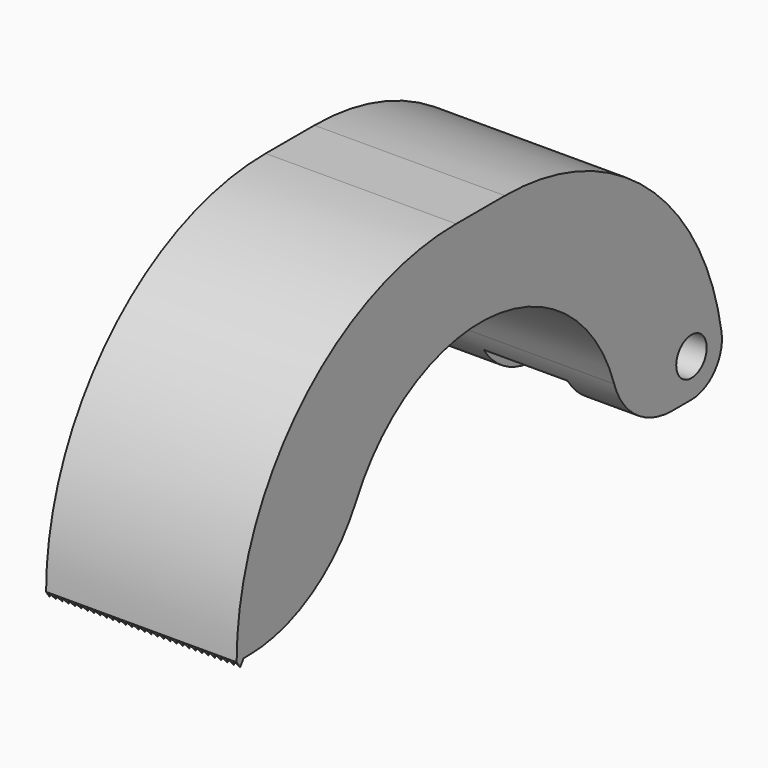
from build123d import *

# Parameters (mm, degrees)
F1_DEPTH  = 31.75
F2_R      = 6.35
F3_W      = 13.97
F3_H      = 25.4
F4_DEPTH  = 12.7
F5_R      = 3.175
F6_DEPTH  = 8.891
F7_R      = 3.175
F8_DEPTH  = 8.891
F10_DEPTH = 1.27


with BuildPart() as f1:
    # F0 (on Right) → F1 (new body)
    with BuildSketch(Plane.YZ):
        with BuildLine():
            Line((5.08, 22.86), (-5.08, 22.86))
            ThreePointArc((-5.08, 22.86), (-37.4089220358, 9.4689220358), (-50.8, -22.86))
            Line((-50.8, -22.86), (-49.3431158517, -22.86))
            Line((-49.3431158517, -22.86), (-48.3434804291, -22.86))
            ThreePointArc((-48.3434804291, -22.86), (-35.2079259795, -19.1997610222), (-25.8581406946, -9.2739534884))
            ThreePointArc((-25.8581406946, -9.2739534884), (2.5656373666, 6.2371064696), (27.8365726971, -14.0084848485))
            ThreePointArc((27.8365726971, -14.0084848485), (32.4422895224, -20.410994039), (39.9394303915, -22.86))
            Line((39.9394303915, -22.86), (50.8, -22.86))
            ThreePointArc((50.8, -22.86), (37.4089220358, 9.4689220358), (5.08, 22.86))
        make_face()
        Polygon((-49.3431158517, -22.86), (-50.8, -22.86), (-50.0715579258, -23.9003230962), align=None)
    extrude(amount=F1_DEPTH)

    # F2
    f2_edges = [f1.edges().sort_by_distance(p)[0] for p in [
        (15.875, 50.8, -22.86),
    ]]
    fillet(f2_edges, radius=F2_R)

    # F3 (on face) → F4 (cut)
    with BuildSketch(Plane(origin=(0, 0, -22.86), x_dir=(1, 0, 0), z_dir=(0, 0, -1))):
        with Locations((15.875, -41.9369795426)):
            Rectangle(F3_W, F3_H)
    extrude(amount=-F4_DEPTH, mode=Mode.SUBTRACT)

    # F5 (on face) → F6 (cut, through all)
    with BuildSketch(Plane.YZ.offset(8.89)):
        with Locations((43.9345286936, -16.51)):
            Circle(F5_R)
    extrude(amount=-F6_DEPTH, mode=Mode.SUBTRACT)

    # F7 (on face) → F8 (cut, through all)
    with BuildSketch(Plane(origin=(22.86, 0, 0), x_dir=(0, -1, 0), z_dir=(-1, 0, 0))):
        with Locations((-43.9345286936, -16.51)):
            Circle(F7_R)
    extrude(amount=-F8_DEPTH, mode=Mode.SUBTRACT)

    # F9 (on face) → F10 (cut)
    with BuildSketch(Plane(origin=(0, -44.8279982961, -31.3889023298), x_dir=(1, 0, 0), z_dir=(0, -0.8191520443, -0.5735764364))):
        Polygon((0.5291666667, 10.4118672342), (0, 9.1418672342), (1.0583333333, 9.1418672342), align=None)
        Polygon((31.2208333333, 10.4118672342), (30.6916666667, 9.1418672342), (31.75, 9.1418672342), align=None)
        Polygon((30.1625, 10.4118672342), (29.6333333333, 9.1418672342), (30.6916666667, 9.1418672342), align=None)
        Polygon((29.1041666667, 10.4118672342), (28.575, 9.1418672342), (29.6333333333, 9.1418672342), align=None)
        Polygon((28.0458333333, 10.4118672342), (27.5166666667, 9.1418672342), (28.575, 9.1418672342), align=None)
        Polygon((26.9875, 10.4118672342), (26.4583333333, 9.1418672342), (27.5166666667, 9.1418672342), align=None)
        Polygon((25.9291666667, 10.4118672342), (25.4, 9.1418672342), (26.4583333333, 9.1418672342), align=None)
        Polygon((24.8708333333, 10.4118672342), (24.3416666667, 9.1418672342), (25.4, 9.1418672342), align=None)
        Polygon((23.8125, 10.4118672342), (23.2833333333, 9.1418672342), (24.3416666667, 9.1418672342), align=None)
        Polygon((22.7541666667, 10.4118672342), (22.225, 9.1418672342), (23.2833333333, 9.1418672342), align=None)
        Polygon((21.6958333333, 10.4118672342), (21.1666666667, 9.1418672342), (22.225, 9.1418672342), align=None)
        Polygon((20.6375, 10.4118672342), (20.1083333333, 9.1418672342), (21.1666666667, 9.1418672342), align=None)
        Polygon((19.5791666667, 10.4118672342), (19.05, 9.1418672342), (20.1083333333, 9.1418672342), align=None)
        Polygon((18.5208333333, 10.4118672342), (17.9916666667, 9.1418672342), (19.05, 9.1418672342), align=None)
        Polygon((17.4625, 10.4118672342), (16.9333333333, 9.1418672342), (17.9916666667, 9.1418672342), align=None)
        Polygon((16.4041666667, 10.4118672342), (15.875, 9.1418672342), (16.9333333333, 9.1418672342), align=None)
        Polygon((15.3458333333, 10.4118672342), (14.8166666667, 9.1418672342), (15.875, 9.1418672342), align=None)
        Polygon((14.2875, 10.4118672342), (13.7583333333, 9.1418672342), (14.8166666667, 9.1418672342), align=None)
        Polygon((13.2291666667, 10.4118672342), (12.7, 9.1418672342), (13.7583333333, 9.1418672342), align=None)
        Polygon((12.1708333333, 10.4118672342), (11.6416666667, 9.1418672342), (12.7, 9.1418672342), align=None)
        Polygon((11.1125, 10.4118672342), (10.5833333333, 9.1418672342), (11.6416666667, 9.1418672342), align=None)
        Polygon((10.0541666667, 10.4118672342), (9.525, 9.1418672342), (10.5833333333, 9.1418672342), align=None)
        Polygon((8.9958333333, 10.4118672342), (8.4666666667, 9.1418672342), (9.525, 9.1418672342), align=None)
        Polygon((7.9375, 10.4118672342), (7.4083333333, 9.1418672342), (8.4666666667, 9.1418672342), align=None)
        Polygon((6.8791666667, 10.4118672342), (6.35, 9.1418672342), (7.4083333333, 9.1418672342), align=None)
        Polygon((5.8208333333, 10.4118672342), (5.2916666667, 9.1418672342), (6.35, 9.1418672342), align=None)
        Polygon((4.7625, 10.4118672342), (4.2333333333, 9.1418672342), (5.2916666667, 9.1418672342), align=None)
        Polygon((3.7041666667, 10.4118672342), (3.175, 9.1418672342), (4.2333333333, 9.1418672342), align=None)
        Polygon((2.6458333333, 10.4118672342), (2.1166666667, 9.1418672342), (3.175, 9.1418672342), align=None)
        Polygon((1.5875, 10.4118672342), (1.0583333333, 9.1418672342), (2.1166666667, 9.1418672342), align=None)
    extrude(amount=-F10_DEPTH, mode=Mode.SUBTRACT)


solid = f1.part
